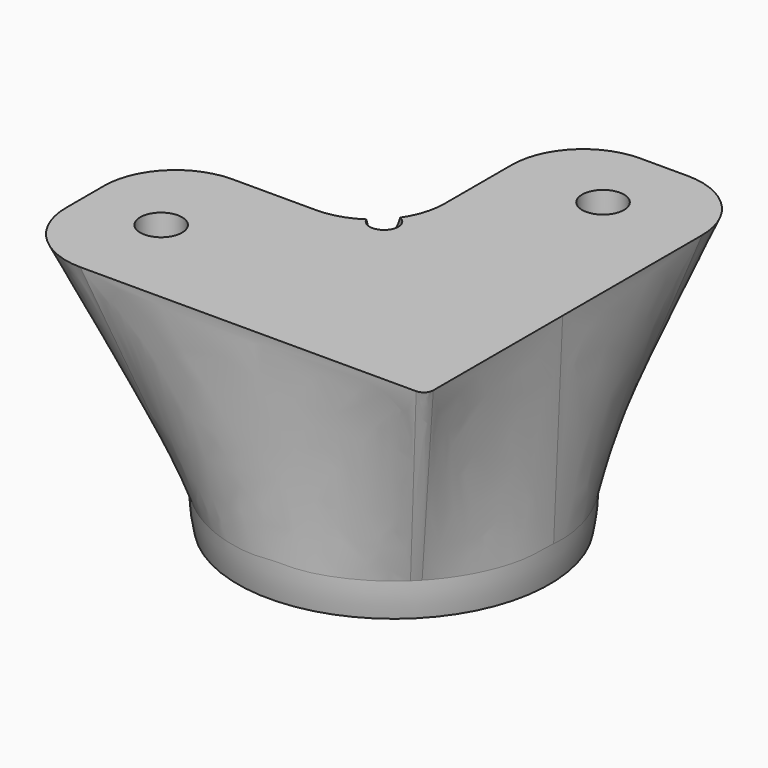
from build123d import *

# Parameters (mm, degrees)
SKETCH_R        = 16.799
CYLINDER_R      = 16.8
CYLINDER_DEPTH  = 13.1
SKETCH004_R     = 2.2
SKETCH004_R_2   = 1.5
POCKET_DEPTH    = 24.501
SKETCH005_R     = 3.8
POCKET001_DEPTH = 21.501


with BuildPart() as part:
    # Sketch → AdditiveLoft section 0
    with BuildSketch(Plane(origin=(5.1, -5.1, 0), x_dir=(1, 0, 0), z_dir=(0, 0, 1))):
        Circle(SKETCH_R)
    # Sketch001 → AdditiveLoft section 1
    with BuildSketch(Plane.XY.offset(20.8)):
        with BuildLine():
            Line((21.9, 14.4), (21.9, -20.9))
            ThreePointArc((20.9, -21.9), (21.607107, -21.607107), (21.9, -20.9))
            Line((20.9, -21.9), (-14.4, -21.9))
            ThreePointArc((-21.9, -14.4), (-19.703301, -19.703301), (-14.4, -21.9))
            Line((-21.9, -14.4), (-21.9, -9.4))
            ThreePointArc((-14.4, -1.9), (-19.703301, -4.096699), (-21.9, -9.4))
            Line((-14.4, -1.9), (-5.6, -1.9))
            ThreePointArc((-5.6, -1.9), (-0.296699, 0.296699), (1.9, 5.6))
            Line((1.9, 5.6), (1.9, 14.4))
            ThreePointArc((9.4, 21.9), (4.096699, 19.703301), (1.9, 14.4))
            Line((9.4, 21.9), (14.4, 21.9))
            ThreePointArc((21.9, 14.4), (19.703301, 19.703301), (14.4, 21.9))
        make_face()
    loft()

    # Sphere → Sphere (revolve)
    with BuildSketch(Plane(origin=(5.1, -5.1, 0), x_dir=(0, 1, 0), z_dir=(1, 0, 0))):
        with BuildLine():
            ThreePointArc((0, -16.8), (16.8, 0), (0, 16.8))
            Line((0, 16.8), (0, -16.8))
        make_face()
    revolve(axis=Axis((5.1, -5.1, 0), (0, 0, 1)))

    # Cylinder → Cylinder (cut)
    with BuildSketch(Plane(origin=(5.1, -5.1, -3.7), x_dir=(0, -1, 0), z_dir=(0, 0, -1))):
        Circle(CYLINDER_R)
    extrude(amount=CYLINDER_DEPTH, mode=Mode.SUBTRACT)

    # Sphere001 → Sphere001 (revolve, cut)
    with BuildSketch(Plane(origin=(5.1, -5.1, 0), x_dir=(0, 1, 0), z_dir=(1, 0, 0))):
        with BuildLine():
            ThreePointArc((0, -14.8), (14.8, 0), (0, 14.8))
            Line((0, 14.8), (0, -14.8))
        make_face()
    revolve(axis=Axis((5.1, -5.1, 0), (0, 0, 1)), mode=Mode.SUBTRACT)

    # Sketch004 → Pocket (cut, through all)
    with BuildSketch(Plane.XY.offset(20.8)):
        with Locations((11.9, 13.9)):
            Circle(SKETCH004_R)
        with Locations((-13.9, -11.9)):
            Circle(SKETCH004_R)
        Circle(SKETCH004_R_2)
    extrude(amount=-POCKET_DEPTH, mode=Mode.SUBTRACT)

    # Sketch005 → Pocket001 (cut, through all)
    with BuildSketch(Plane.XY.offset(17.8)):
        with Locations((11.9, 13.9)):
            Circle(SKETCH005_R)
        with Locations((-13.9, -11.9)):
            Circle(SKETCH005_R)
    extrude(amount=-POCKET001_DEPTH, mode=Mode.SUBTRACT)


solid = part.part
